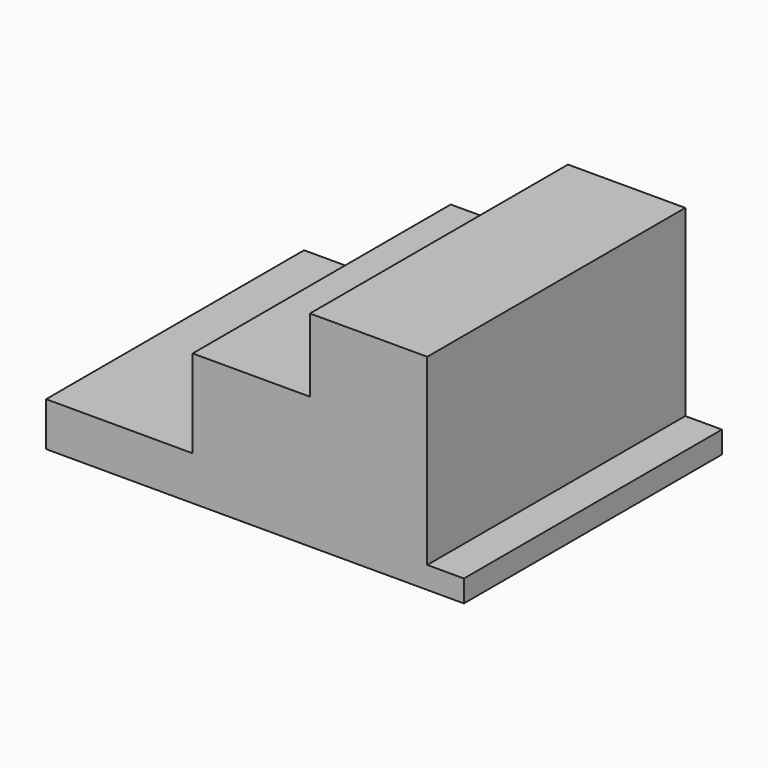
from build123d import *

# Parameters (mm, degrees)
F0_W     = 57
F0_H     = 44
F1_DEPTH = 28
F2_W     = 20
F2_H     = 44
F3_DEPTH = 22
F4_W     = 16
F4_H     = 44
F5_DEPTH = 10
F6_W     = 5
F6_H     = 44
F7_DEPTH = 25


with BuildPart() as f1:
    # F0 (on Top) → F1 (new body)
    with BuildSketch(Plane.XY):
        Rectangle(F0_W, F0_H)
    extrude(amount=F1_DEPTH)

    # F2 (on face) → F3 (cut)
    with BuildSketch(Plane.XY.offset(28)):
        with Locations((-18.5, 0)):
            Rectangle(F2_W, F2_H)
    extrude(amount=-F3_DEPTH, mode=Mode.SUBTRACT)

    # F4 (on face) → F5 (cut)
    with BuildSketch(Plane.XY.offset(28)):
        with Locations((-0.5, 0)):
            Rectangle(F4_W, F4_H)
    extrude(amount=-F5_DEPTH, mode=Mode.SUBTRACT)

    # F6 (on face) → F7 (cut)
    with BuildSketch(Plane.XY.offset(28)):
        with Locations((26, 0)):
            Rectangle(F6_W, F6_H)
    extrude(amount=-F7_DEPTH, mode=Mode.SUBTRACT)


solid = f1.part
